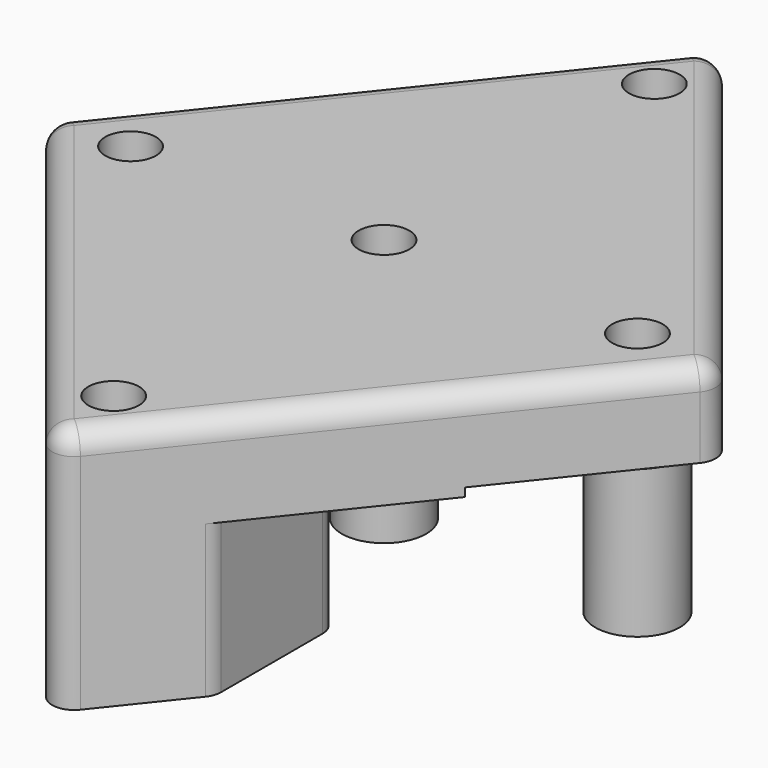
from build123d import *

# Parameters (mm, degrees)
SKETCH_R        = 1.5
PAD_DEPTH       = 14.5
SKETCH001_R     = 3
POCKET_DEPTH    = 9.5
SKETCH002_R     = 2.5
POCKET001_DEPTH = 9
FILLET_R        = 1.3


with BuildPart() as part:
    # Sketch → Pad (new body)
    with BuildSketch(Plane.XY):
        Polygon((-20, 0), (0, 25), (20, 0), (0, -25), align=None)
        with Locations((0, 20)):
            Circle(SKETCH_R, mode=Mode.SUBTRACT)
        with Locations((0, -20)):
            Circle(SKETCH_R, mode=Mode.SUBTRACT)
        with Locations((-15, 0)):
            Circle(SKETCH_R, mode=Mode.SUBTRACT)
        Circle(SKETCH_R, mode=Mode.SUBTRACT)
        with Locations((15, 0)):
            Circle(SKETCH_R, mode=Mode.SUBTRACT)
    extrude(amount=PAD_DEPTH)

    # Sketch001 (on Face10 of Pad) → Pocket (cut)
    with BuildSketch(Plane(origin=(0, 0, 0), x_dir=(1, 0, 0), z_dir=(0, 0, -1))):
        with BuildLine():
            ThreePointArc((-15, 9.5), (-24.5, 0), (-15, -9.5))
            Line((-15, -9.5), (15, -9.5))
            ThreePointArc((15, -9.5), (24.5, 0), (15, 9.5))
            Line((-15, 9.5), (15, 9.5))
        make_face()
        with Locations((-15, 0)):
            Circle(SKETCH001_R, mode=Mode.SUBTRACT)
        Circle(SKETCH001_R, mode=Mode.SUBTRACT)
        with Locations((15, 0)):
            Circle(SKETCH001_R, mode=Mode.SUBTRACT)
    extrude(amount=-POCKET_DEPTH, mode=Mode.SUBTRACT)

    # Sketch002 (on Face20 of Pocket) → Pocket001 (cut)
    with BuildSketch(Plane(origin=(0, 0, 0), x_dir=(1, 0, 0), z_dir=(0, 0, -1))):
        Polygon((-20, 25), (-20, -25), (-5, -25), (-5, -9.5), (5, -9.5), (5, -25), (20, -25), (20, 25), (5, 25), (5, 9.5), (-5, 9.5), (-5, 25), align=None)
        Circle(SKETCH002_R, mode=Mode.SUBTRACT)
        with Locations((-15, 0)):
            Circle(SKETCH002_R, mode=Mode.SUBTRACT)
        with Locations((15, 0)):
            Circle(SKETCH002_R, mode=Mode.SUBTRACT)
    extrude(amount=-POCKET001_DEPTH, mode=Mode.SUBTRACT)

    # Fillet
    fillet_edges = [part.edges().sort_by_distance(p)[0] for p in [
        (10, -12.5, 14.5),
        (-10, -12.5, 14.5),
        (-10, 12.5, 14.5),
        (10, 12.5, 14.5),
        (0, -25, 7.25),
        (5, -18.75, 4.5),
        (-5, -18.75, 4.5),
        (20, 0, 12),
        (-20, 0, 12),
        (-5, 18.75, 4.5),
        (0, 25, 7.25),
        (5, 18.75, 4.5),
        (-5, -9.5, 4.5),
        (5, -9.5, 4.5),
        (5, 9.5, 4.5),
        (-5, 9.5, 4.5),
    ]]
    fillet(fillet_edges, radius=FILLET_R)


solid = part.part
